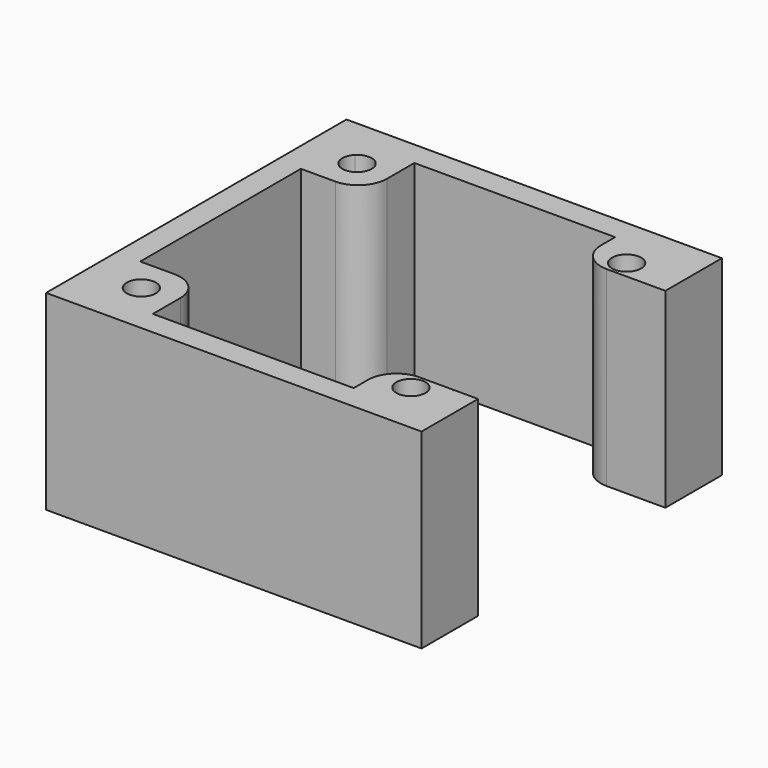
from build123d import *

# Parameters (mm, degrees)
F1_DEPTH = 33.3375


with BuildPart() as f1:
    # F0 (on Top) → F1 (new body)
    with BuildSketch(Plane.XY):
        Polygon((30.322588, -40.908534), (30.322588, -28.574839), (26.08241, -28.574839), (26.079947, -36.665893), (15.08241, -36.665893), (-19.970053, -36.665893), (-30.970053, -36.665893), (-30.970053, -25.665893), (-30.970053, 9.384107), (-30.970053, 20.384107), (-19.970053, 20.384107), (15.079947, 20.384107), (26.079947, 20.384107), (30.322588, 24.626748), (-35.212693, 24.626748), (-35.212693, -40.908534), align=None)
        with BuildLine():
            Line((-19.970053, 14.384107), (-19.970053, 20.384107))
            Line((-19.970053, 20.384107), (-30.970053, 20.384107))
            Line((-30.970053, 20.384107), (-30.970053, 9.384107))
            Line((-30.970053, 9.384107), (-24.970053, 9.384107))
            ThreePointArc((-24.970053, 9.384107), (-21.434519, 10.848573), (-19.970053, 14.384107))
        make_face()
        with BuildLine():
            ThreePointArc((-23.420051, 15.384105), (-26.945894, 13.028213), (-27.773174, 17.187228))
            ThreePointArc((-27.773174, 17.187228), (-24.994209, 17.739998), (-23.420051, 15.384105))
        make_face(mode=Mode.SUBTRACT)
        with BuildLine():
            Line((20.079947, 12.293053), (26.079947, 12.293053))
            Line((26.079947, 12.293053), (26.079947, 20.384107))
            Line((26.079947, 20.384107), (15.079947, 20.384107))
            Line((15.079947, 20.384107), (15.079947, 17.293053))
            ThreePointArc((15.079947, 17.293053), (16.544413, 13.757519), (20.079947, 12.293053))
        make_face()
        with BuildLine():
            ThreePointArc((23.629995, 15.384155), (18.724102, 14.408312), (22.883117, 17.187277))
            ThreePointArc((22.883117, 17.187277), (23.435888, 16.359998), (23.629995, 15.384155))
        make_face(mode=Mode.SUBTRACT)
        with BuildLine():
            Line((26.079947, -36.665893), (26.079947, -28.574839))
            Line((26.079947, -28.574839), (20.08241, -28.574839))
            ThreePointArc((20.08241, -28.574839), (16.546876, -30.039305), (15.08241, -33.574839))
            Line((15.08241, -33.574839), (15.08241, -36.665893))
            Line((15.08241, -36.665893), (26.079947, -36.665893))
        make_face()
        with BuildLine():
            ThreePointArc((23.629995, -31.665941), (23.435888, -32.641784), (22.883117, -33.469063))
            ThreePointArc((22.883117, -33.469063), (18.724102, -30.690098), (23.629995, -31.665941))
        make_face(mode=Mode.SUBTRACT)
        with BuildLine():
            Line((-30.970053, -36.665893), (-19.970053, -36.665893))
            Line((-19.970053, -36.665893), (-19.970053, -30.665893))
            ThreePointArc((-19.970053, -30.665893), (-21.434519, -27.130359), (-24.970053, -25.665893))
            Line((-24.970053, -25.665893), (-30.970053, -25.665893))
            Line((-30.970053, -25.665893), (-30.970053, -36.665893))
        make_face()
        with BuildLine():
            ThreePointArc((-23.420101, -31.665941), (-24.994258, -34.021834), (-27.773223, -33.469063))
            ThreePointArc((-27.773223, -33.469063), (-26.945944, -29.310048), (-23.420101, -31.665941))
        make_face(mode=Mode.SUBTRACT)
        Polygon((26.079947, 12.293053), (30.322588, 12.293053), (30.322588, 24.626748), (26.079947, 20.384107), align=None)
    extrude(amount=F1_DEPTH)


solid = f1.part
